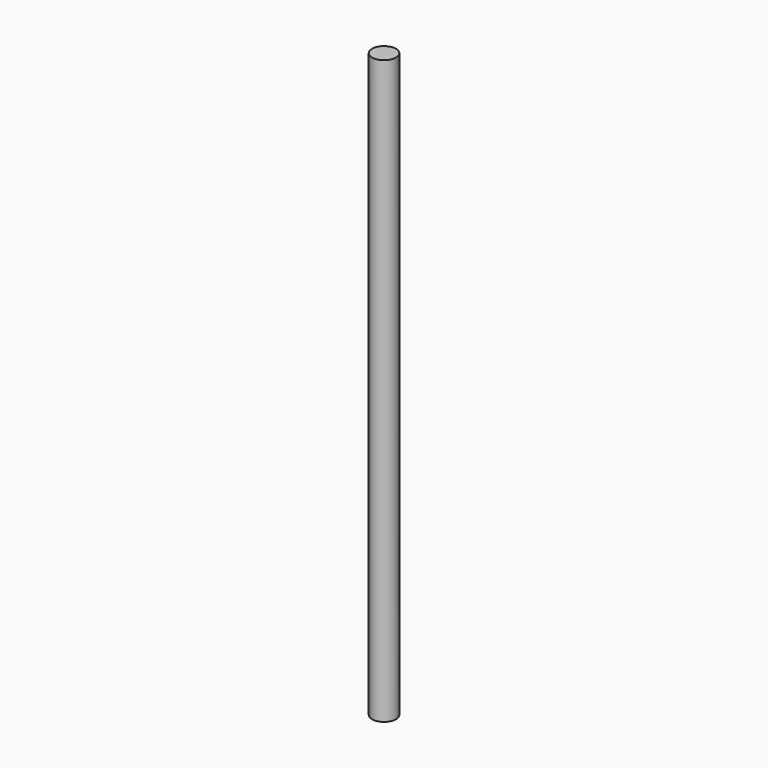
from build123d import *

# Parameters (mm, degrees)
SKETCH_R  = 4
PAD_DEPTH = 195


with BuildPart() as part:
    # Sketch → Pad (new body)
    with BuildSketch(Plane.XY):
        Circle(SKETCH_R)
    extrude(amount=PAD_DEPTH)


solid = part.part
